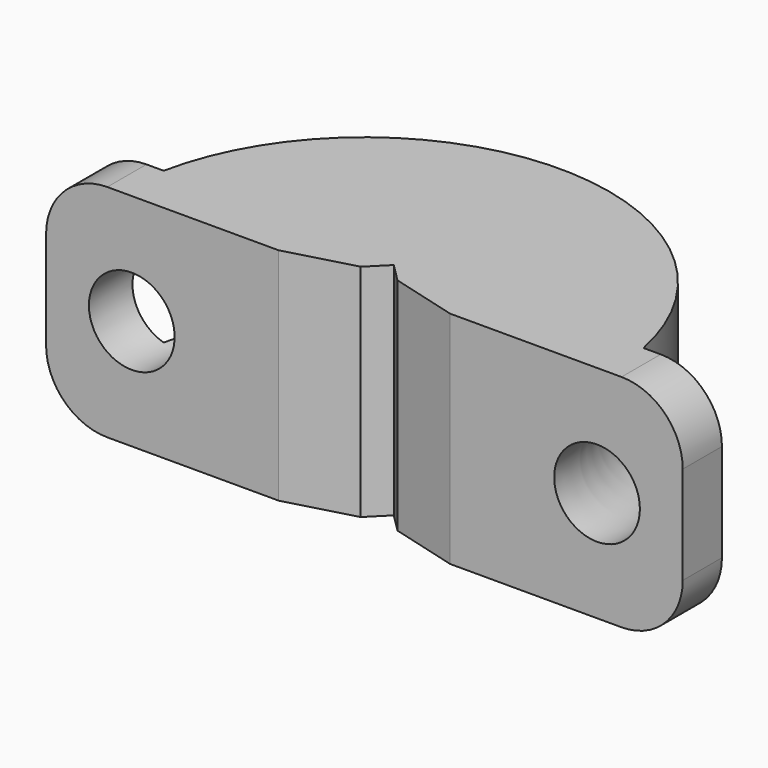
from build123d import *

# Parameters (mm, degrees)
F1_DEPTH = 18
F2_R     = 3.5
F4_R     = 5


with BuildPart() as f1:
    # F0 (on Top) → F1 (new body)
    with BuildSketch(Plane.XY):
        with BuildLine():
            Line((26, 4), (19.595918, 4))
            ThreePointArc((19.595918, 4), (0, 20), (-19.595918, 4))
            Line((-19.595918, 4), (-26, 4))
            Line((-26, 4), (-26, 0))
            Line((-26, 0), (-7, 0))
            Line((-7, 0), (-1.5, 1.5))
            Line((-1.5, 1.5), (0, 3))
            Line((0, 3), (1.5, 1.5))
            Line((1.5, 1.5), (7, 0))
            Line((7, 0), (26, 0))
            Line((26, 0), (26, 4))
        make_face()
    extrude(amount=F1_DEPTH)

    # F2 (on face) → F3 (revolve, cut)
    with BuildSketch(Plane.XZ):
        with Locations((19, 9)):
            Circle(F2_R)
    revolve(axis=Axis((0, 0, 6.141683), (0, 0, -1)), mode=Mode.SUBTRACT)

    # F4
    f4_edges = [f1.edges().sort_by_distance(p)[0] for p in [
        (26, 2, 18),
        (26, 2, 0),
        (-26, 2, 0),
        (-26, 2, 18),
    ]]
    fillet(f4_edges, radius=F4_R)


solid = f1.part
